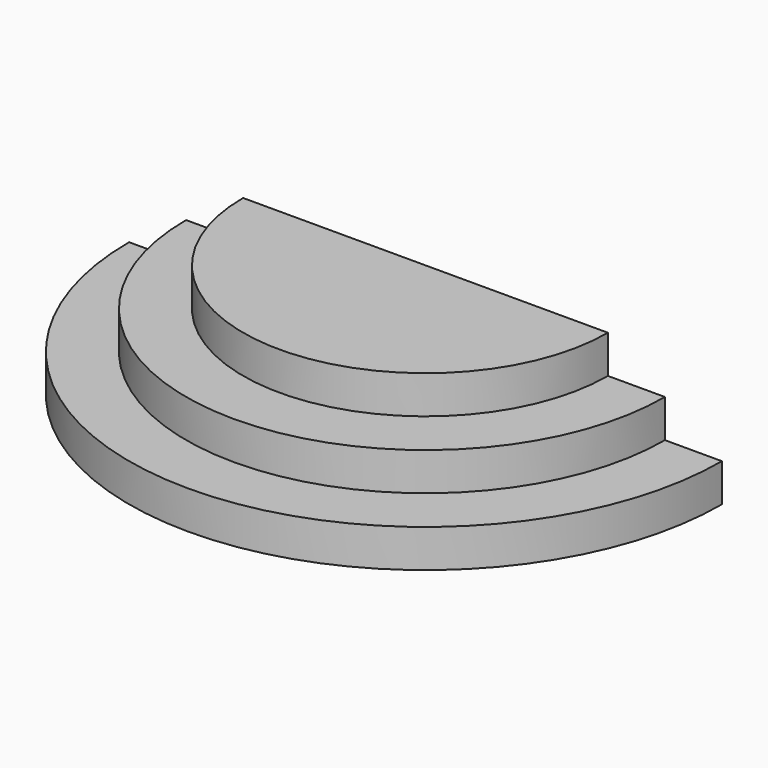
from build123d import *

# Parameters (mm, degrees)
F1_DEPTH = 254
F3_DEPTH = 254
F5_DEPTH = 254


with BuildPart() as f1:
    # F0 (on Top) → F1 (new body)
    with BuildSketch(Plane.XY):
        with BuildLine():
            Line((2438.4, 0), (0, 0))
            ThreePointArc((0, 0), (1219.2, -1219.2), (2438.4, 0))
        make_face()
    extrude(amount=F1_DEPTH)


with BuildPart() as f3:
    # F2 (on face) → F3 (new body)
    with BuildSketch(Plane(origin=(0, 0, 0), x_dir=(1, 0, 0), z_dir=(0, 0, -1))):
        with BuildLine():
            Line((-381, 0), (0, 0))
            ThreePointArc((0, 0), (1219.2, 1219.2), (2438.4, 0))
            Line((2438.4, 0), (2819.4, 0))
            ThreePointArc((2819.4, 0), (1219.2, 1600.2), (-381, 0))
        make_face()
    extrude(amount=F3_DEPTH)


with BuildPart() as f5:
    # F4 (on face) → F5 (new body)
    with BuildSketch(Plane(origin=(0, 0, -254), x_dir=(1, 0, 0), z_dir=(0, 0, -1))):
        with BuildLine():
            Line((-762, 0), (-381, 0))
            ThreePointArc((-381, 0), (1219.2, 1600.2), (2819.4, 0))
            Line((2819.4, 0), (3200.4, 0))
            ThreePointArc((3200.4, 0), (1219.2, 1981.2), (-762, 0))
        make_face()
    extrude(amount=F5_DEPTH)


solid = Compound([f1.part, f3.part, f5.part])
